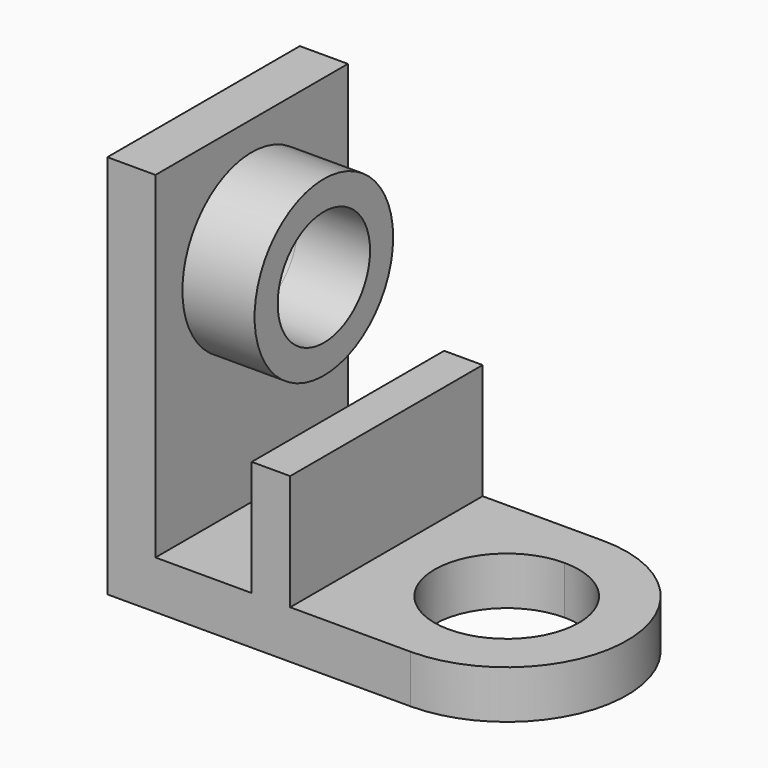
from build123d import *

# Parameters (mm, degrees)
F1_DEPTH = 10
F2_W     = 8
F2_H     = 50
F3_DEPTH = 24
F4_W     = 10
F4_H     = 50
F5_DEPTH = 70
F6_R     = 18
F6_R_2   = 12
F7_DEPTH = 15
F8_R     = 12
F9_DEPTH = 10


with BuildPart() as f1:
    # F0 (on Top) → F1 (new body)
    with BuildSketch(Plane.XY):
        with BuildLine():
            Line((0, 50), (0, 0))
            Line((0, 0), (63, 0))
            ThreePointArc((63, 0), (88, 25), (63, 50))
            Line((63, 50), (0, 50))
        make_face()
        with BuildLine():
            ThreePointArc((78, 25), (73.606602, 14.393398), (63, 10))
            ThreePointArc((63, 10), (48, 25), (63, 40))
            ThreePointArc((63, 40), (73.606602, 35.606602), (78, 25))
        make_face(mode=Mode.SUBTRACT)
    extrude(amount=F1_DEPTH)

    # F2 (on face) → F3 (join)
    with BuildSketch(Plane.XY.offset(10)):
        with Locations((34, 25)):
            Rectangle(F2_W, F2_H)
    extrude(amount=F3_DEPTH)

    # F4 (on face) → F5 (join)
    with BuildSketch(Plane.XY.offset(10)):
        with Locations((5, 25)):
            Rectangle(F4_W, F4_H)
    extrude(amount=F5_DEPTH)

    # F6 (on face) → F7 (join)
    with BuildSketch(Plane.YZ.offset(10)):
        with Locations((25, 56)):
            Circle(F6_R)
        with Locations((25, 56)):
            Circle(F6_R_2, mode=Mode.SUBTRACT)
    extrude(amount=F7_DEPTH)

    # F8 (on face) → F9 (cut, through all)
    with BuildSketch(Plane.YZ.offset(10)):
        with Locations((25, 56)):
            Circle(F8_R)
    extrude(amount=-F9_DEPTH, mode=Mode.SUBTRACT)


solid = f1.part
